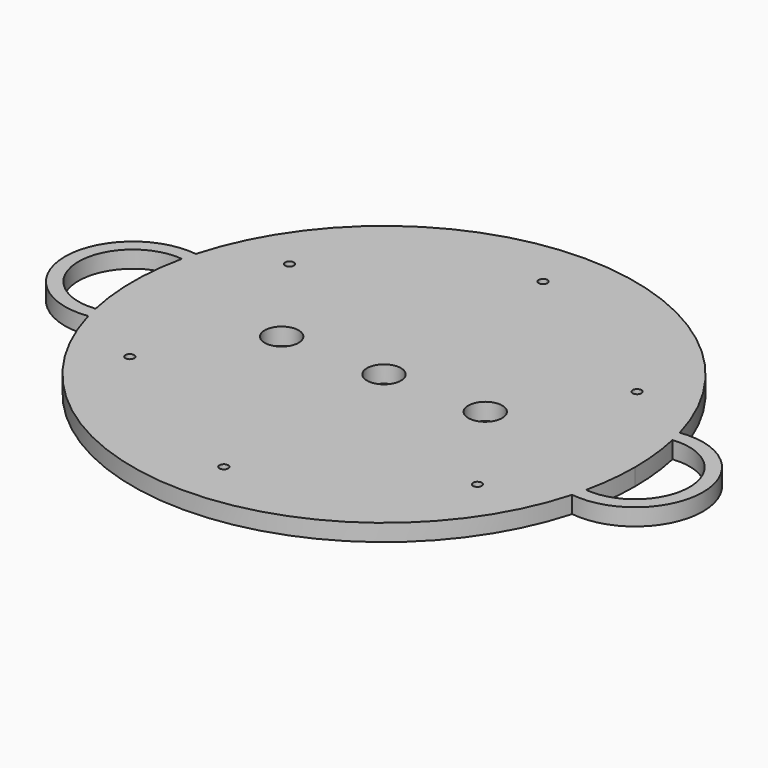
from build123d import *

# Parameters (mm, degrees)
F0_R     = 3.25
F0_R_2   = 12.5
F1_DEPTH = 6.25
F2_DEPTH = 5
F3_DEPTH = 6.25


with BuildPart() as f1:
    # F0 (on Top) → F1 (new body, symmetric)
    with BuildSketch(Plane.XY):
        with BuildLine():
            ThreePointArc((180.675676, -39.765566), (183.915742, -20), (185, 0))
            ThreePointArc((185, 0), (183.915742, 20), (180.675676, 39.765566))
            ThreePointArc((180.675676, 39.765566), (179.526012, 44.670022), (178.243243, 49.541359))
            ThreePointArc((178.243243, 49.541359), (0, 185), (-178.243243, 49.541359))
            ThreePointArc((-178.243243, 49.541359), (-179.526012, 44.670022), (-180.675676, 39.765566))
            ThreePointArc((-180.675676, 39.765566), (-185, 0), (-180.675676, -39.765566))
            ThreePointArc((-180.675676, -39.765566), (-179.526012, -44.670022), (-178.243243, -49.541359))
            ThreePointArc((-178.243243, -49.541359), (0, -185), (178.243243, -49.541359))
            ThreePointArc((178.243243, -49.541359), (179.526012, -44.670022), (180.675676, -39.765566))
        make_face()
        with Locations((-127.938853, -74.096593)):
            Circle(F0_R, mode=Mode.SUBTRACT)
        with Locations((0, -147.5)):
            Circle(F0_R, mode=Mode.SUBTRACT)
        with Locations((127.538642, -73.403407)):
            Circle(F0_R, mode=Mode.SUBTRACT)
        with Locations((-128.339063, 73.403407)):
            Circle(F0_R, mode=Mode.SUBTRACT)
        with Locations((-75.400211, 0)):
            Circle(F0_R_2, mode=Mode.SUBTRACT)
        with Locations((-0.800422, 147.5)):
            Circle(F0_R, mode=Mode.SUBTRACT)
        Circle(F0_R_2, mode=Mode.SUBTRACT)
        with Locations((74.599789, 0)):
            Circle(F0_R_2, mode=Mode.SUBTRACT)
        with Locations((127.138431, 74.096593)):
            Circle(F0_R, mode=Mode.SUBTRACT)
    extrude(amount=F1_DEPTH, both=True)

    # F0 (on Top) → F2 (join, symmetric)
    with BuildSketch(Plane.XY):
        with BuildLine():
            ThreePointArc((180.675676, -39.765566), (183.915742, -20), (185, 0))
            ThreePointArc((185, 0), (183.915742, 20), (180.675676, 39.765566))
            ThreePointArc((180.675676, 39.765566), (179.526012, 44.670022), (178.243243, 49.541359))
            ThreePointArc((178.243243, 49.541359), (0, 185), (-178.243243, 49.541359))
            ThreePointArc((-178.243243, 49.541359), (-179.526012, 44.670022), (-180.675676, 39.765566))
            ThreePointArc((-180.675676, 39.765566), (-185, 0), (-180.675676, -39.765566))
            ThreePointArc((-180.675676, -39.765566), (-179.526012, -44.670022), (-178.243243, -49.541359))
            ThreePointArc((-178.243243, -49.541359), (0, -185), (178.243243, -49.541359))
            ThreePointArc((178.243243, -49.541359), (179.526012, -44.670022), (180.675676, -39.765566))
        make_face()
        with Locations((-127.938853, -74.096593)):
            Circle(F0_R, mode=Mode.SUBTRACT)
        with Locations((0, -147.5)):
            Circle(F0_R, mode=Mode.SUBTRACT)
        with Locations((127.538642, -73.403407)):
            Circle(F0_R, mode=Mode.SUBTRACT)
        with Locations((-128.339063, 73.403407)):
            Circle(F0_R, mode=Mode.SUBTRACT)
        with Locations((-75.400211, 0)):
            Circle(F0_R_2, mode=Mode.SUBTRACT)
        with Locations((-0.800422, 147.5)):
            Circle(F0_R, mode=Mode.SUBTRACT)
        Circle(F0_R_2, mode=Mode.SUBTRACT)
        with Locations((74.599789, 0)):
            Circle(F0_R_2, mode=Mode.SUBTRACT)
        with Locations((127.138431, 74.096593)):
            Circle(F0_R, mode=Mode.SUBTRACT)
        with BuildLine():
            ThreePointArc((178.243243, 49.541359), (179.526012, 44.670022), (180.675676, 39.765566))
            ThreePointArc((180.675676, 39.765566), (225, 0), (180.675676, -39.765566))
            ThreePointArc((180.675676, -39.765566), (179.526012, -44.670022), (178.243243, -49.541359))
            ThreePointArc((178.243243, -49.541359), (235, 0), (178.243243, 49.541359))
        make_face()
        with BuildLine():
            ThreePointArc((-180.675676, 39.765566), (-179.526012, 44.670022), (-178.243243, 49.541359))
            ThreePointArc((-178.243243, 49.541359), (-235, 0), (-178.243243, -49.541359))
            ThreePointArc((-178.243243, -49.541359), (-179.526012, -44.670022), (-180.675676, -39.765566))
            ThreePointArc((-180.675676, -39.765566), (-225, 0), (-180.675676, 39.765566))
        make_face()
    extrude(amount=F2_DEPTH, both=True)

    # F0 (on Top) → F3 (join, symmetric)
    with BuildSketch(Plane.XY):
        with BuildLine():
            ThreePointArc((180.675676, -39.765566), (183.915742, -20), (185, 0))
            ThreePointArc((185, 0), (183.915742, 20), (180.675676, 39.765566))
            ThreePointArc((180.675676, 39.765566), (179.526012, 44.670022), (178.243243, 49.541359))
            ThreePointArc((178.243243, 49.541359), (0, 185), (-178.243243, 49.541359))
            ThreePointArc((-178.243243, 49.541359), (-179.526012, 44.670022), (-180.675676, 39.765566))
            ThreePointArc((-180.675676, 39.765566), (-185, 0), (-180.675676, -39.765566))
            ThreePointArc((-180.675676, -39.765566), (-179.526012, -44.670022), (-178.243243, -49.541359))
            ThreePointArc((-178.243243, -49.541359), (0, -185), (178.243243, -49.541359))
            ThreePointArc((178.243243, -49.541359), (179.526012, -44.670022), (180.675676, -39.765566))
        make_face()
        with Locations((-127.938853, -74.096593)):
            Circle(F0_R, mode=Mode.SUBTRACT)
        with Locations((0, -147.5)):
            Circle(F0_R, mode=Mode.SUBTRACT)
        with Locations((127.538642, -73.403407)):
            Circle(F0_R, mode=Mode.SUBTRACT)
        with Locations((-128.339063, 73.403407)):
            Circle(F0_R, mode=Mode.SUBTRACT)
        with Locations((-75.400211, 0)):
            Circle(F0_R_2, mode=Mode.SUBTRACT)
        with Locations((-0.800422, 147.5)):
            Circle(F0_R, mode=Mode.SUBTRACT)
        Circle(F0_R_2, mode=Mode.SUBTRACT)
        with Locations((74.599789, 0)):
            Circle(F0_R_2, mode=Mode.SUBTRACT)
        with Locations((127.138431, 74.096593)):
            Circle(F0_R, mode=Mode.SUBTRACT)
        with BuildLine():
            ThreePointArc((178.243243, 49.541359), (179.526012, 44.670022), (180.675676, 39.765566))
            ThreePointArc((180.675676, 39.765566), (225, 0), (180.675676, -39.765566))
            ThreePointArc((180.675676, -39.765566), (179.526012, -44.670022), (178.243243, -49.541359))
            ThreePointArc((178.243243, -49.541359), (235, 0), (178.243243, 49.541359))
        make_face()
        with BuildLine():
            ThreePointArc((-180.675676, 39.765566), (-179.526012, 44.670022), (-178.243243, 49.541359))
            ThreePointArc((-178.243243, 49.541359), (-235, 0), (-178.243243, -49.541359))
            ThreePointArc((-178.243243, -49.541359), (-179.526012, -44.670022), (-180.675676, -39.765566))
            ThreePointArc((-180.675676, -39.765566), (-225, 0), (-180.675676, 39.765566))
        make_face()
    extrude(amount=F3_DEPTH, both=True)


solid = f1.part
